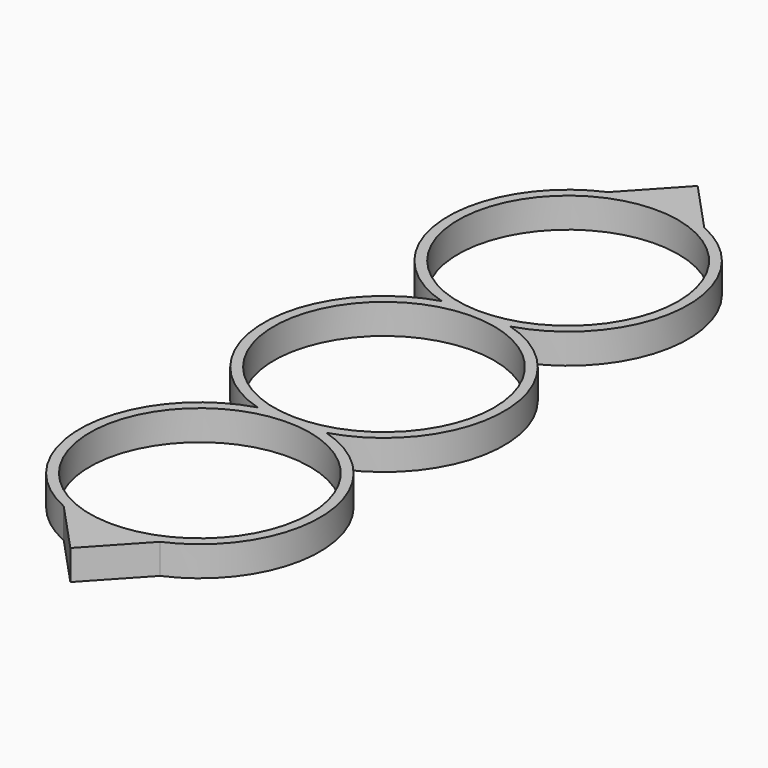
from build123d import *

# Parameters (mm, degrees)
F0_R     = 11
F1_DEPTH = 3


with BuildPart() as f1:
    # F0 (on Top) → F1 (new body)
    with BuildSketch(Plane.XY):
        with BuildLine():
            ThreePointArc((-4.80491, 33.996037), (-11.97758, 22.266799), (-3.427827, 11.5))
            ThreePointArc((-3.427827, 11.5), (-12, 0), (-3.427827, -11.5))
            ThreePointArc((-3.427827, -11.5), (-11.97758, -22.266799), (-4.80491, -33.996037))
            Line((-4.80491, -33.996037), (0, -39.177649))
            Line((0, -39.177649), (4.80491, -33.996037))
            ThreePointArc((4.80491, -33.996037), (11.97758, -22.266799), (3.427827, -11.5))
            ThreePointArc((3.427827, -11.5), (12, 0), (3.427827, 11.5))
            ThreePointArc((3.427827, 11.5), (11.97758, 22.266799), (4.80491, 33.996037))
            Line((4.80491, 33.996037), (0, 39.177649))
            Line((0, 39.177649), (-4.80491, 33.996037))
        make_face()
        with Locations((0, -23)):
            Circle(F0_R, mode=Mode.SUBTRACT)
        Circle(F0_R, mode=Mode.SUBTRACT)
        with Locations((0, 23)):
            Circle(F0_R, mode=Mode.SUBTRACT)
    extrude(amount=F1_DEPTH)


solid = f1.part
